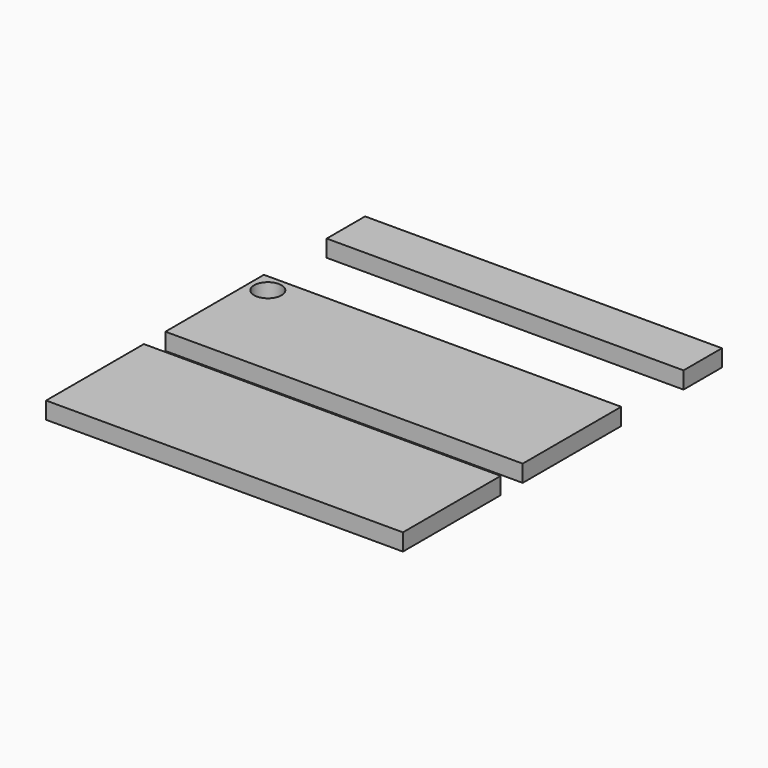
from build123d import *

# Parameters (mm, degrees)
F0_W     = 399.618358
F0_H     = 136.889741
F0_H_2   = 53.735167
F0_W_2   = 400.13127
F0_H_3   = 137.90302
F0_R     = 15.335777
F0_R_2   = 10.233177
F1_DEPTH = 19


with BuildPart() as f1:
    # F0 (on Top) → F1 (new body)
    with BuildSketch(Plane.XY):
        with Locations((-266.556695, -176.374637)):
            Rectangle(F0_W, F0_H)
        with Locations((-266.556695, 174.870669)):
            Rectangle(F0_W, F0_H_2)
        with Locations((-266.300239, -8.843094)):
            Rectangle(F0_W_2, F0_H_3)
        with BuildLine():
            ThreePointArc((-336.545243, -28.746858), (-350.150513, -34.382346), (-344.515026, -20.777075))
            ThreePointArc((-344.515026, -20.777075), (-338.879538, -23.111371), (-336.545243, -28.746858))
        make_face(mode=Mode.SUBTRACT)
        with Locations((-445.402294, 39.384797)):
            Circle(F0_R, mode=Mode.SUBTRACT)
        Polygon((-354.99683, 0), (-344.515026, 32.833677), (-336.65368, 0), (-344.515026, -9.322512), align=None, mode=Mode.SUBTRACT)
        Polygon((-297.34695, 0), (-284.244716, 32.833677), (-272.251386, 0), (-246.248215, -14.33439), (-272.251386, -23.586301), (-284.244716, -53.641111), (-297.34695, -24.791258), (-323.551446, -14.33439), align=None, mode=Mode.SUBTRACT)
        with BuildLine():
            ThreePointArc((-336.545243, -28.746858), (-338.879538, -23.111371), (-344.515026, -20.777075))
            ThreePointArc((-344.515026, -20.777075), (-350.150513, -34.382346), (-336.545243, -28.746858))
        make_face()
        Polygon((-344.515026, 6.629196), (-354.99683, 0), (-344.515026, -9.322512), (-336.65368, 0), align=None)
        Polygon((-336.65368, 0), (-344.515026, 32.833677), (-354.99683, 0), (-344.515026, 6.629196), align=None)
        Polygon((-272.251386, 0), (-284.244716, 32.833677), (-297.34695, 0), (-323.551446, -14.33439), (-297.34695, -24.791258), (-284.244716, -53.641111), (-272.251386, -23.586301), (-246.248215, -14.33439), align=None)
        with Locations((-284.244716, -10.403717)):
            Circle(F0_R_2, mode=Mode.SUBTRACT)
        with Locations((-284.244716, -10.403717)):
            Circle(F0_R_2)
    extrude(amount=F1_DEPTH)


solid = f1.part
